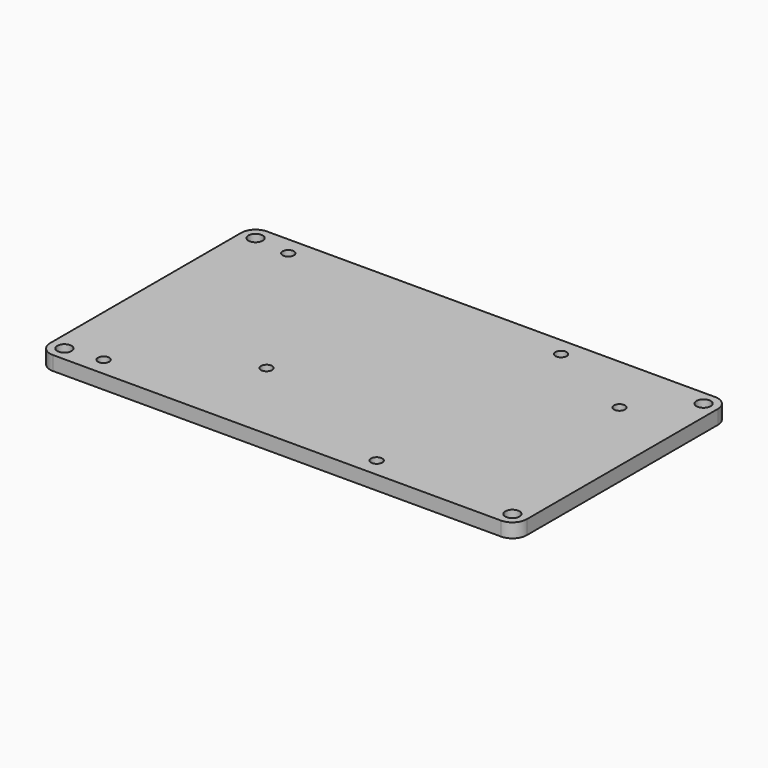
from build123d import *

# Parameters (mm, degrees)
F0_R     = 1.524
F0_R_2   = 1.1938
F1_DEPTH = 2.9972


with BuildPart() as f1:
    # F0 (on Top) → F1 (new body)
    with BuildSketch(Plane.XY):
        with BuildLine():
            ThreePointArc((0, 3.048), (0.892739, 0.892739), (3.048, 0))
            Line((3.048, 0), (98.298, 0))
            ThreePointArc((98.298, 0), (100.453261, 0.892739), (101.346, 3.048))
            Line((101.346, 3.048), (101.346, 53.848))
            ThreePointArc((101.346, 53.848), (100.453261, 56.003261), (98.298, 56.896))
            Line((98.298, 56.896), (3.048, 56.896))
            ThreePointArc((3.048, 56.896), (0.892739, 56.003261), (0, 53.848))
            Line((0, 53.848), (0, 3.048))
        make_face()
        with Locations((3.048, 3.048)):
            Circle(F0_R, mode=Mode.SUBTRACT)
        with Locations((10.668, 3.937)):
            Circle(F0_R_2, mode=Mode.SUBTRACT)
        with Locations((33.655, 18.508092)):
            Circle(F0_R_2, mode=Mode.SUBTRACT)
        with Locations((68.707, 3.953922)):
            Circle(F0_R_2, mode=Mode.SUBTRACT)
        with Locations((98.298, 3.048)):
            Circle(F0_R, mode=Mode.SUBTRACT)
        with Locations((10.7127, 52.959)):
            Circle(F0_R_2, mode=Mode.SUBTRACT)
        with Locations((3.048, 53.848)):
            Circle(F0_R, mode=Mode.SUBTRACT)
        with Locations((68.707, 52.959)):
            Circle(F0_R_2, mode=Mode.SUBTRACT)
        with Locations((88.265, 44.035092)):
            Circle(F0_R_2, mode=Mode.SUBTRACT)
        with Locations((98.298, 53.848)):
            Circle(F0_R, mode=Mode.SUBTRACT)
    extrude(amount=F1_DEPTH)


solid = f1.part
